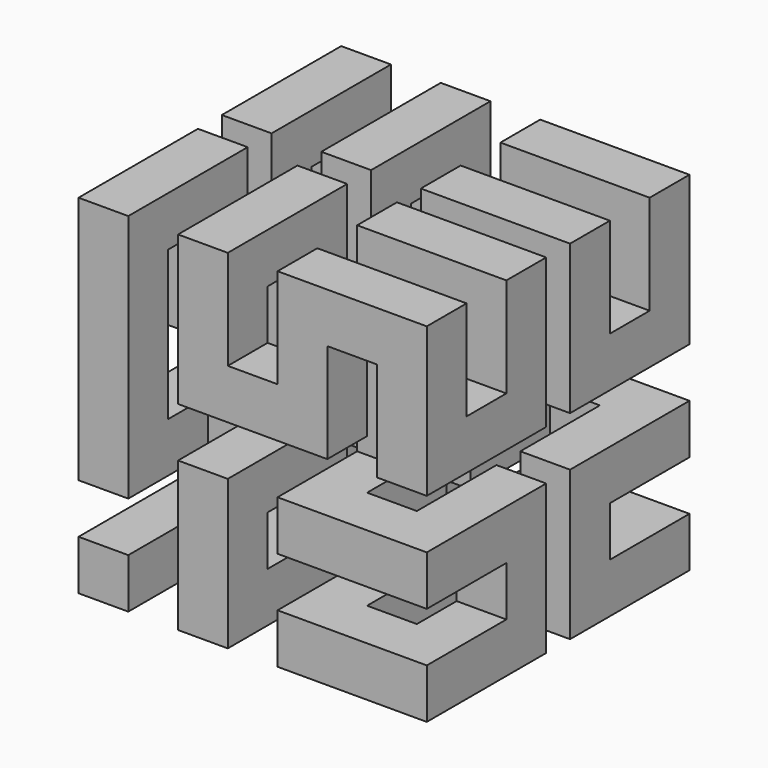
from build123d import *

# Parameters (mm, degrees)
F0_W      = 6.35
F0_H      = 6.35
F1_DEPTH  = 19.05
F2_W      = 6.35
F2_H      = 6.35
F3_DEPTH  = 19.05
F4_W      = 6.35
F4_H      = 6.35
F5_DEPTH  = 19.05
F6_W      = 6.35
F6_H      = 6.35
F7_DEPTH  = 19.05
F8_W      = 6.35
F8_H      = 6.35
F9_DEPTH  = 19.05
F10_W     = 6.35
F10_H     = 6.35
F11_DEPTH = 19.05
F12_W     = 6.35
F12_H     = 6.35
F13_DEPTH = 19.05
F14_W     = 6.35
F14_H     = 6.35
F15_DEPTH = 31.75
F16_W     = 6.35
F16_H     = 6.35
F17_DEPTH = 19.05
F18_W     = 6.35
F18_H     = 6.35
F19_DEPTH = 19.05
F20_W     = 6.35
F20_H     = 6.35
F21_DEPTH = 19.05
F22_W     = 6.35
F22_H     = 6.35
F23_DEPTH = 19.05
F24_W     = 6.35
F24_H     = 6.35
F25_DEPTH = 19.05
F26_W     = 6.35
F26_H     = 6.35
F27_DEPTH = 19.05
F28_W     = 6.35
F28_H     = 6.35
F29_DEPTH = 19.05
F30_W     = 6.35
F30_H     = 6.35
F31_DEPTH = 19.05
F32_W     = 6.35
F32_H     = 6.35
F33_DEPTH = 19.05
F34_W     = 6.35
F34_H     = 6.35
F35_DEPTH = 19.05
F36_W     = 6.35
F36_H     = 6.35
F37_DEPTH = 19.05
F38_W     = 6.35
F38_H     = 6.35
F39_DEPTH = 19.05
F40_W     = 6.35
F40_H     = 6.35
F41_DEPTH = 19.05
F42_W     = 6.35
F42_H     = 6.35
F43_DEPTH = 31.75
F44_W     = 6.35
F44_H     = 6.35
F45_DEPTH = 19.05
F46_W     = 6.35
F46_H     = 6.35
F47_DEPTH = 19.05
F48_W     = 6.35
F48_H     = 6.35
F49_DEPTH = 19.05
F50_W     = 6.35
F50_H     = 6.35
F51_DEPTH = 19.05
F52_W     = 6.35
F52_H     = 6.35
F53_DEPTH = 19.05
F54_W     = 6.35
F54_H     = 6.35
F55_DEPTH = 19.05
F56_W     = 6.35
F56_H     = 6.35
F57_DEPTH = 20.955


with BuildPart() as f1:
    # F0 (on Front) → F1 (new body)
    with BuildSketch(Plane.XZ):
        with Locations((3.175, 3.175)):
            Rectangle(F0_W, F0_H)
    extrude(amount=F1_DEPTH)

    # F2 (on face) → F3 (join)
    with BuildSketch(Plane(origin=(0, 0, 0), x_dir=(0, -1, 0), z_dir=(-1, 0, 0))):
        with Locations((15.875, 3.175)):
            Rectangle(F2_W, F2_H)
    extrude(amount=-F3_DEPTH)

    # F4 (on face) → F5 (join)
    with BuildSketch(Plane.XZ.offset(19.05)):
        with Locations((15.875, 3.175)):
            Rectangle(F4_W, F4_H)
    extrude(amount=-F5_DEPTH)

    # F6 (on face) → F7 (join)
    with BuildSketch(Plane(origin=(0, 0, 0), x_dir=(1, 0, 0), z_dir=(0, 0, -1))):
        with Locations((15.875, 3.175)):
            Rectangle(F6_W, F6_H)
    extrude(amount=-F7_DEPTH)

    # F8 (on face) → F9 (join)
    with BuildSketch(Plane(origin=(0, 0, 0), x_dir=(-1, 0, 0), z_dir=(0, 1, 0))):
        with Locations((-15.875, 15.875)):
            Rectangle(F8_W, F8_H)
    extrude(amount=-F9_DEPTH)

    # F10 (on face) → F11 (join)
    with BuildSketch(Plane.YZ.offset(19.05)):
        with Locations((-15.875, 15.875)):
            Rectangle(F10_W, F10_H)
    extrude(amount=-F11_DEPTH)

    # F12 (on face) → F13 (join)
    with BuildSketch(Plane.XZ.offset(19.05)):
        with Locations((3.175, 15.875)):
            Rectangle(F12_W, F12_H)
    extrude(amount=-F13_DEPTH)

    # F14 (on face) → F15 (join)
    with BuildSketch(Plane(origin=(0, 0, 12.7), x_dir=(1, 0, 0), z_dir=(0, 0, -1))):
        with Locations((3.175, 3.175)):
            Rectangle(F14_W, F14_H)
    extrude(amount=-F15_DEPTH)

    # F16 (on face) → F17 (join)
    with BuildSketch(Plane(origin=(0, 0, 0), x_dir=(-1, 0, 0), z_dir=(0, 1, 0))):
        with Locations((-3.175, 41.275)):
            Rectangle(F16_W, F16_H)
    extrude(amount=-F17_DEPTH)

    # F18 (on face) → F19 (join)
    with BuildSketch(Plane.XY.offset(44.45)):
        with Locations((3.175, -15.875)):
            Rectangle(F18_W, F18_H)
    extrude(amount=-F19_DEPTH)

    # F20 (on face) → F21 (join)
    with BuildSketch(Plane(origin=(0, 0, 0), x_dir=(0, -1, 0), z_dir=(-1, 0, 0))):
        with Locations((15.875, 28.575)):
            Rectangle(F20_W, F20_H)
    extrude(amount=-F21_DEPTH)

    # F22 (on face) → F23 (join)
    with BuildSketch(Plane(origin=(0, 0, 25.4), x_dir=(1, 0, 0), z_dir=(0, 0, -1))):
        with Locations((15.875, 15.875)):
            Rectangle(F22_W, F22_H)
    extrude(amount=-F23_DEPTH)

    # F24 (on face) → F25 (join)
    with BuildSketch(Plane.XZ.offset(19.05)):
        with Locations((15.875, 41.275)):
            Rectangle(F24_W, F24_H)
    extrude(amount=-F25_DEPTH)

    # F26 (on face) → F27 (join)
    with BuildSketch(Plane.XY.offset(44.45)):
        with Locations((15.875, -3.175)):
            Rectangle(F26_W, F26_H)
    extrude(amount=-F27_DEPTH)

    # F28 (on face) → F29 (join)
    with BuildSketch(Plane(origin=(12.7, 0, 0), x_dir=(0, -1, 0), z_dir=(-1, 0, 0))):
        with Locations((3.175, 28.575)):
            Rectangle(F28_W, F28_H)
    extrude(amount=-F29_DEPTH)

    # F30 (on face) → F31 (join)
    with BuildSketch(Plane(origin=(0, 0, 25.4), x_dir=(1, 0, 0), z_dir=(0, 0, -1))):
        with Locations((28.575, 3.175)):
            Rectangle(F30_W, F30_H)
    extrude(amount=-F31_DEPTH)

    # F32 (on face) → F33 (join)
    with BuildSketch(Plane(origin=(25.4, 0, 0), x_dir=(0, -1, 0), z_dir=(-1, 0, 0))):
        with Locations((3.175, 41.275)):
            Rectangle(F32_W, F32_H)
    extrude(amount=-F33_DEPTH)

    # F34 (on face) → F35 (join)
    with BuildSketch(Plane.XY.offset(44.45)):
        with Locations((41.275, -3.175)):
            Rectangle(F34_W, F34_H)
    extrude(amount=-F35_DEPTH)

    # F36 (on face) → F37 (join)
    with BuildSketch(Plane(origin=(0, 0, 0), x_dir=(-1, 0, 0), z_dir=(0, 1, 0))):
        with Locations((-41.275, 28.575)):
            Rectangle(F36_W, F36_H)
    extrude(amount=-F37_DEPTH)

    # F38 (on face) → F39 (join)
    with BuildSketch(Plane(origin=(0, 0, 25.4), x_dir=(1, 0, 0), z_dir=(0, 0, -1))):
        with Locations((41.275, 15.875)):
            Rectangle(F38_W, F38_H)
    extrude(amount=-F39_DEPTH)

    # F40 (on face) → F41 (join)
    with BuildSketch(Plane.YZ.offset(44.45)):
        with Locations((-15.875, 41.275)):
            Rectangle(F40_W, F40_H)
    extrude(amount=-F41_DEPTH)

    # F42 (on face) → F43 (join)
    with BuildSketch(Plane.XY.offset(44.45)):
        with Locations((28.575, -15.875)):
            Rectangle(F42_W, F42_H)
    extrude(amount=-F43_DEPTH)

    # F44 (on face) → F45 (join)
    with BuildSketch(Plane.XZ.offset(19.05)):
        with Locations((28.575, 15.875)):
            Rectangle(F44_W, F44_H)
    extrude(amount=-F45_DEPTH)

    # F46 (on face) → F47 (join)
    with BuildSketch(Plane(origin=(25.4, 0, 0), x_dir=(0, -1, 0), z_dir=(-1, 0, 0))):
        with Locations((3.175, 15.875)):
            Rectangle(F46_W, F46_H)
    extrude(amount=-F47_DEPTH)

    # F48 (on face) → F49 (join)
    with BuildSketch(Plane(origin=(0, 0, 0), x_dir=(-1, 0, 0), z_dir=(0, 1, 0))):
        with Locations((-41.275, 15.875)):
            Rectangle(F48_W, F48_H)
    extrude(amount=-F49_DEPTH)

    # F50 (on face) → F51 (join)
    with BuildSketch(Plane.XY.offset(19.05)):
        with Locations((41.275, -15.875)):
            Rectangle(F50_W, F50_H)
    extrude(amount=-F51_DEPTH)

    # F52 (on face) → F53 (join)
    with BuildSketch(Plane.XZ.offset(19.05)):
        with Locations((41.275, 3.175)):
            Rectangle(F52_W, F52_H)
    extrude(amount=-F53_DEPTH)

    # F54 (on face) → F55 (join)
    with BuildSketch(Plane.YZ.offset(44.45)):
        with Locations((-3.175, 3.175)):
            Rectangle(F54_W, F54_H)
    extrude(amount=-F55_DEPTH)

    # F56 (on face) → F57 (join)
    with BuildSketch(Plane(origin=(0, 0, 0), x_dir=(-1, 0, 0), z_dir=(0, 1, 0))):
        with Locations((-28.575, 3.175)):
            Rectangle(F56_W, F56_H)
    extrude(amount=-F57_DEPTH)

    # F58: F1 across face


with BuildPart() as f1_1:
    add(f1.part)
    add(f1.part.mirror(Plane(origin=(28.575, -20.955, 3.175), x_dir=(-1, 0, 0), z_dir=(0, -1, 0))))


solid = f1_1.part
